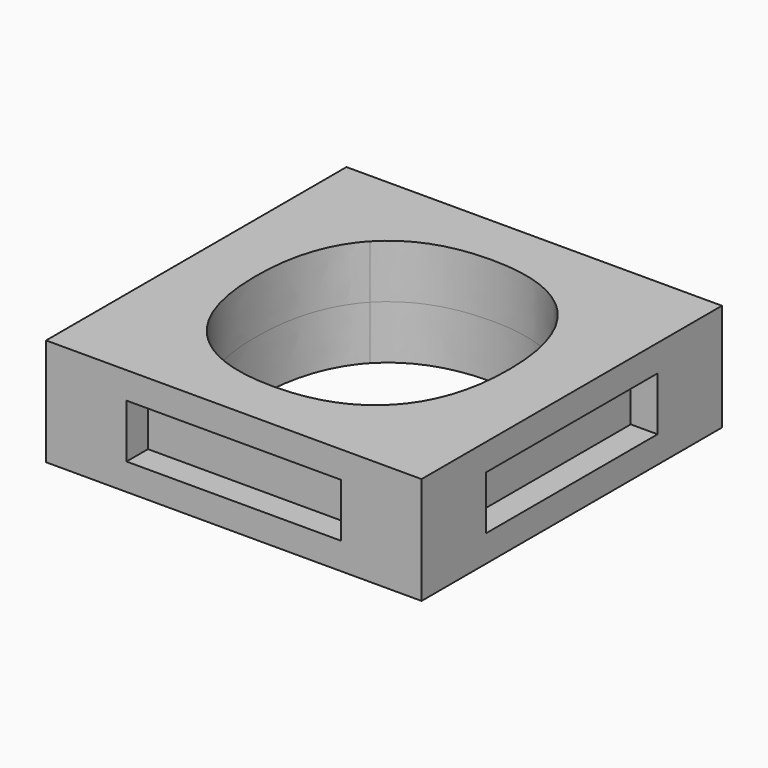
from build123d import *

# Parameters (mm, degrees)
F0_W     = 35.56
F0_H     = 35.56
F1_DEPTH = 5.08
F2_W     = 19.812
F2_H     = 4.572
F3_DEPTH = 2.54
F4_W     = 19.812
F4_H     = 4.572
F5_DEPTH = 2.54
F6_W     = 20.32
F6_H     = 5.08
F7_DEPTH = 2.54
F8_W     = 20.32
F8_H     = 5.08
F9_DEPTH = 2.54


with BuildPart() as f1:
    # F0 (on Top) → F1 (new body, symmetric)
    with BuildSketch(Plane.XY):
        Rectangle(F0_W, F0_H)
        with BuildLine():
            add(Edge.make_bspline(
                [(8.7946397569, 9.5387803819), (11.8704210069, 6.1956597222), (11.8704210069, -0.0716579861)],
                knots=[0, 0, 0, 1, 1, 1], degree=2))
            add(Edge.make_bspline(
                [(11.8704210069, -0.0716579861), (11.8704210069, -6.3279513889), (8.7698350694, -9.6876085069)],
                knots=[0, 0, 0, 1, 1, 1], degree=2))
            add(Edge.make_bspline(
                [(8.7698350694, -9.6876085069), (5.6692491319, -13.047265625), (-0.1185112847, -13.047265625)],
                knots=[0, 0, 0, 1, 1, 1], degree=2))
            add(Edge.make_bspline(
                [(-0.1185112847, -13.047265625), (-5.9062717014, -13.047265625), (-9.0068576389, -9.6876085069)],
                knots=[0, 0, 0, 1, 1, 1], degree=2))
            add(Edge.make_bspline(
                [(-9.0068576389, -9.6876085069), (-12.1074435764, -6.3279513889), (-12.1074435764, -0.0385850694)],
                knots=[0, 0, 0, 1, 1, 1], degree=2))
            add(Edge.make_bspline(
                [(-12.1074435764, -0.0385850694), (-12.1074435764, 6.25078125), (-8.9985894097, 9.5663411458)],
                knots=[0, 0, 0, 1, 1, 1], degree=2))
            add(Edge.make_bspline(
                [(-8.9985894097, 9.5663411458), (-5.8897352431, 12.8819010417), (-0.0854383681, 12.8819010417)],
                knots=[0, 0, 0, 1, 1, 1], degree=2))
            add(Edge.make_bspline(
                [(-0.0854383681, 12.8819010417), (5.7188585069, 12.8819010417), (8.7946397569, 9.5387803819)],
                knots=[0, 0, 0, 1, 1, 1], degree=2))
        make_face(mode=Mode.SUBTRACT)
    extrude(amount=F1_DEPTH, both=True)

    # F2 (on face) → F3 (join)
    with BuildSketch(Plane(origin=(0, 17.78, 0), x_dir=(-1, 0, 0), z_dir=(0, 1, 0))):
        Rectangle(F2_W, F2_H)
    extrude(amount=F3_DEPTH)

    # F4 (on face) → F5 (join)
    with BuildSketch(Plane(origin=(-17.78, 0, 0), x_dir=(0, -1, 0), z_dir=(-1, 0, 0))):
        Rectangle(F4_W, F4_H)
    extrude(amount=F5_DEPTH)

    # F6 (on face) → F7 (cut)
    with BuildSketch(Plane.XZ.offset(17.78)):
        Rectangle(F6_W, F6_H)
    extrude(amount=-F7_DEPTH, mode=Mode.SUBTRACT)

    # F8 (on face) → F9 (cut)
    with BuildSketch(Plane.YZ.offset(17.78)):
        Rectangle(F8_W, F8_H)
    extrude(amount=-F9_DEPTH, mode=Mode.SUBTRACT)


solid = f1.part
